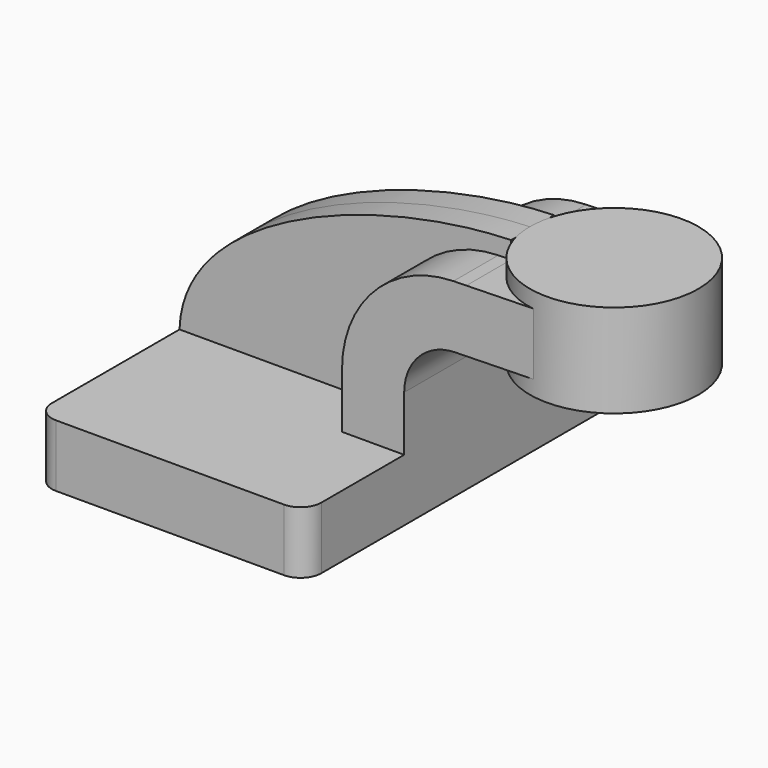
from build123d import *

# Parameters (mm, degrees)
F1_W     = 82.55
F1_H     = 19.05
F2_DEPTH = 63.5
F3_DEPTH = 25.4
F4_DEPTH = 8.255
F6_R     = 6.35


with BuildPart() as f2:
    # F1 (on Front) → F2 (new body, symmetric)
    with BuildSketch(Plane.XZ):
        Rectangle(F1_W, F1_H)
    extrude(amount=F2_DEPTH, both=True)

    # F0 (on Front) → F3 (join, symmetric)
    with BuildSketch(Plane.XZ):
        with BuildLine():
            Line((22.225, 26.3682509312), (22.225, 9.525))
            Line((22.225, 9.525), (41.275, 9.525))
            Line((41.275, 9.525), (41.275, 26.3682509312))
            ThreePointArc((41.275, 26.3682509312), (45.8020066403, 37.4695423744), (56.8011318686, 42.2394171148))
            Line((56.8011318686, 42.2394171148), (60.325, 42.3168761544))
            Line((60.325, 42.3168761544), (60.325, 61.3714778454))
            Line((60.325, 61.3714778454), (56.382490111, 61.2848165351))
            ThreePointArc((56.382490111, 61.2848165351), (32.1844146086, 50.7910921063), (22.225, 26.3682509312))
        make_face()
        Polygon((85.3063582423, 61.9205994203), (60.325, 61.3714778454), (60.325, 42.3168761544), (85.3063582423, 42.8659977293), align=None)
    extrude(amount=F3_DEPTH, both=True)

    # F6
    f6_edges = [f2.edges().sort_by_distance(p)[0] for p in [
        (-41.275, -63.5, 0),
        (41.275, -63.5, 0),
        (41.275, 63.5, 0),
        (-41.275, 63.5, 0),
    ]]
    fillet(f6_edges, radius=F6_R)


with BuildPart() as f4:
    # F0 (on Front) → F4 (new body, symmetric)
    with BuildSketch(Plane.XZ):
        with BuildLine():
            add(Edge.make_bspline(
                [(-41.275, 9.525), (-40.304647513, 43.4288604094), (17.420032993, 65.3251186013), (60.325, 66.675)],
                knots=[0, 0, 0, 0, 116.5705044169, 116.5705044169, 116.5705044169, 116.5705044169], degree=3))
            Line((-41.275, 9.525), (22.225, 9.525))
            Line((22.225, 9.525), (22.225, 26.3682509312))
            ThreePointArc((22.225, 26.3682509312), (32.1844146086, 50.7910921063), (56.382490111, 61.2848165351))
            Line((56.382490111, 61.2848165351), (60.325, 61.3714778454))
            Line((60.325, 61.3714778454), (60.325, 66.675))
        make_face()
    extrude(amount=F4_DEPTH, both=True)


with BuildPart() as f5:
    # F0 (on Front) → F5 (revolve)
    with BuildSketch(Plane.XZ):
        Polygon((111.125, 66.675), (85.3063582423, 66.675), (85.3063582423, 61.9205994203), (85.3063582423, 42.8659977293), (85.3063582423, 38.1), (111.125, 38.1), align=None)
    revolve(axis=Axis((85.3063582423, 0, 52.3875), (0, 0, 1)))


solid = Compound([f2.part, f4.part, f5.part])
